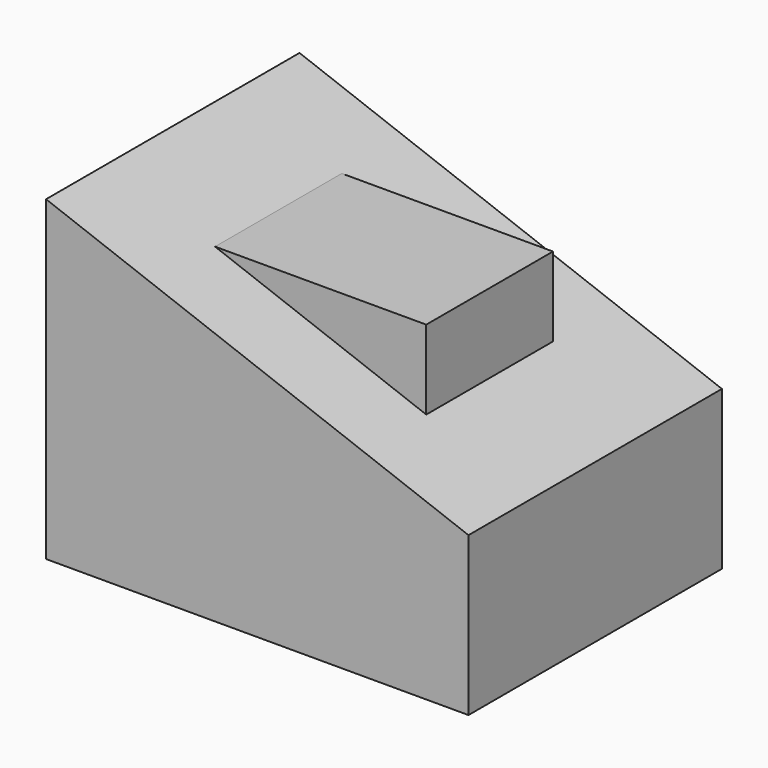
from build123d import *

# Parameters (mm, degrees)
F1_DEPTH = 15
F2_DEPTH = 7.5


with BuildPart() as f1:
    # F0 (on Front) → F1 (new body, symmetric)
    with BuildSketch(Plane.XZ):
        Polygon((0, 30), (0, 0), (40, 0), (40, 15), (30, 18.75), (10, 18.75), (10, 26.25), align=None)
        Polygon((30, 18.75), (10, 26.25), (10, 18.75), align=None)
    extrude(amount=F1_DEPTH, both=True)

    # F0 (on Front) → F2 (join, symmetric)
    with BuildSketch(Plane.XZ):
        Polygon((30, 26.25), (10, 26.25), (30, 18.75), align=None)
    extrude(amount=F2_DEPTH, both=True)


solid = f1.part
